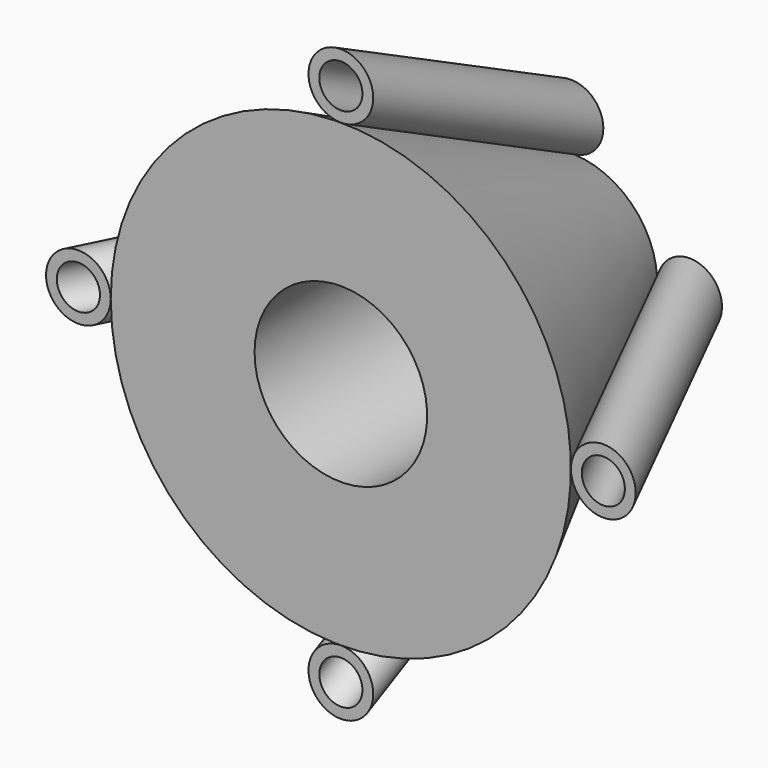
from build123d import *

# Parameters (mm, degrees)
F6_R      = 0.45
F8_R      = 0.3
F10_COUNT = 4


with BuildPart() as f1:
    # F0 (on Top) → F1 (revolve)
    with BuildSketch(Plane.XY):
        Polygon((-3.2, 0), (-1.2, 0), (-1.2, 4), align=None)
    revolve(axis=Axis((0, 2, 0), (0, -1, 0)))


with BuildPart() as f7:
    # F7: sweep along a path in F4
    with BuildLine(Plane.XY) as f7_path:
        Line((-3.2, 0), (-1.2, 4))
    # F6 (on line) → F7 (sweep)
    with BuildSketch(Plane.XZ):
        with Locations((-3.65, 0)):
            Circle(F6_R)
    sweep(path=f7_path.line)

    # F9: sweep along a path in F0
    with BuildLine(Plane.XY) as f9_path:
        Line((-1.2, 4), (-3.2, 0))
    # F8 (on face) → F9 (sweep, cut)
    with BuildSketch(Plane.XZ):
        with Locations((-3.65, 0)):
            Circle(F8_R)
    sweep(path=f9_path.line, mode=Mode.SUBTRACT)


with BuildPart() as f10_1:
    # F10: instance of F7
    add(f7.part.rotate(Axis((0, 0, 0), (0, -1, 0)), 1 * 360 / F10_COUNT))


with BuildPart() as f10_2:
    # F10: instance of F7
    add(f7.part.rotate(Axis((0, 0, 0), (0, -1, 0)), 2 * 360 / F10_COUNT))


with BuildPart() as f10_3:
    # F10: instance of F7
    add(f7.part.rotate(Axis((0, 0, 0), (0, -1, 0)), 3 * 360 / F10_COUNT))


solid = Compound([f1.part, f7.part, f10_1.part, f10_2.part, f10_3.part])
